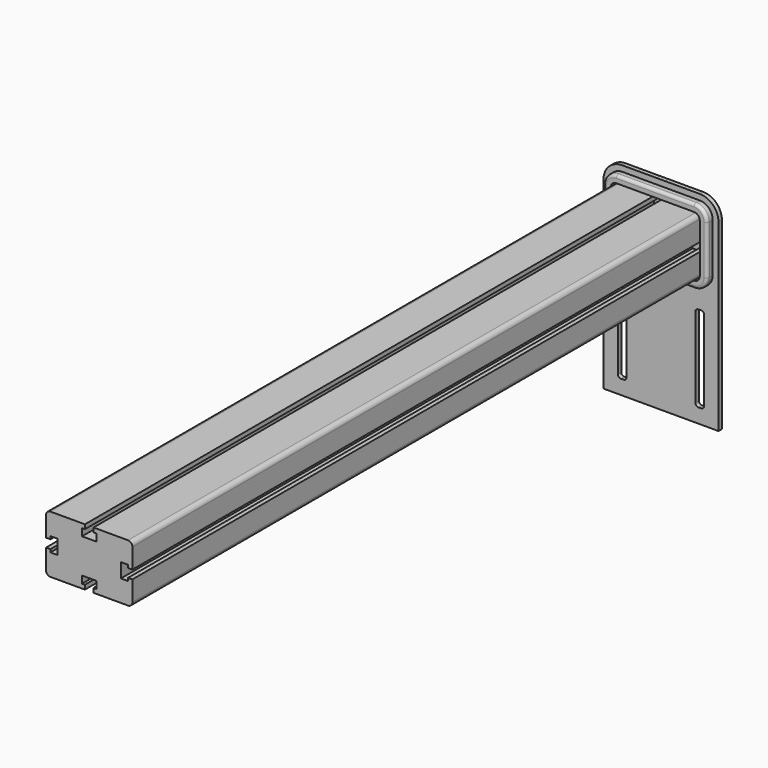
from build123d import *

# Parameters (mm, degrees)
F1_DEPTH = 500
F3_DEPTH = 3
F5_DEPTH = 5
F6_R     = 2


with BuildPart() as f1:
    # F0 (on Front) → F1 (new body)
    with BuildSketch(Plane.XZ):
        with BuildLine():
            Line((3, -20), (27, -20))
            ThreePointArc((27, -20), (29.12132, -19.12132), (30, -17))
            Line((30, -17), (30, -3))
            Line((30, -3), (27, -3))
            Line((27, -3), (27, -5))
            Line((27, -5), (22, -5))
            Line((22, -5), (22, 5))
            Line((22, 5), (27, 5))
            Line((27, 5), (27, 3))
            Line((27, 3), (30, 3))
            Line((30, 3), (30, 17))
            ThreePointArc((30, 17), (29.12132, 19.12132), (27, 20))
            Line((27, 20), (3, 20))
            Line((3, 20), (3, 17))
            Line((3, 17), (5, 17))
            Line((5, 17), (5, 12))
            Line((5, 12), (-5, 12))
            Line((-5, 12), (-5, 17))
            Line((-5, 17), (-3, 17))
            Line((-3, 17), (-3, 20))
            Line((-3, 20), (-27, 20))
            ThreePointArc((-27, 20), (-29.12132, 19.12132), (-30, 17))
            Line((-30, 17), (-30, 3))
            Line((-30, 3), (-27, 3))
            Line((-27, 3), (-27, 5))
            Line((-27, 5), (-22, 5))
            Line((-22, 5), (-22, -5))
            Line((-22, -5), (-27, -5))
            Line((-27, -5), (-27, -3))
            Line((-27, -3), (-30, -3))
            Line((-30, -3), (-30, -17))
            ThreePointArc((-30, -17), (-29.12132, -19.12132), (-27, -20))
            Line((-27, -20), (-3, -20))
            Line((-3, -20), (-3, -17))
            Line((-3, -17), (-5, -17))
            Line((-5, -17), (-5, -12))
            Line((-5, -12), (5, -12))
            Line((5, -12), (5, -17))
            Line((5, -17), (3, -17))
            Line((3, -17), (3, -20))
        make_face()
    extrude(amount=F1_DEPTH)


with BuildPart() as f3:
    # F2 (on Front) → F3 (new body)
    with BuildSketch(Plane.XZ):
        with BuildLine():
            Line((3, 29.999999), (-3, 30))
            Line((-3, 30), (-27, 30))
            ThreePointArc((-27, 30), (-36.192388, 26.192388), (-40, 17))
            Line((-40, 17), (-40, 3))
            Line((-40, 3), (-40, -110.966856))
            Line((-40, -110.966856), (39.999999, -110.966856))
            Line((39.999999, -110.966856), (39.999999, 3))
            Line((39.999999, 3), (39.999999, 17))
            ThreePointArc((39.999999, 17), (36.192388, 26.192388), (27, 29.999999))
            Line((27, 29.999999), (3, 29.999999))
        make_face()
        with BuildLine():
            ThreePointArc((-24, -98.966856), (-24.585786, -100.381069), (-26, -100.966856))
            Line((-26, -100.966856), (-28, -100.966856))
            ThreePointArc((-28, -100.966856), (-29.414214, -100.381069), (-30, -98.966856))
            Line((-30, -98.966856), (-30, -42.966856))
            ThreePointArc((-30, -42.966856), (-29.414214, -41.552642), (-28, -40.966856))
            Line((-28, -40.966856), (-26, -40.966856))
            ThreePointArc((-26, -40.966856), (-24.585786, -41.552642), (-24, -42.966856))
            Line((-24, -42.966856), (-24, -98.966856))
        make_face(mode=Mode.SUBTRACT)
        with BuildLine():
            ThreePointArc((26, -100.966856), (24.585786, -100.381069), (24, -98.966856))
            Line((24, -98.966856), (24, -42.966856))
            ThreePointArc((24, -42.966856), (24.585786, -41.552642), (26, -40.966856))
            Line((26, -40.966856), (28, -40.966856))
            ThreePointArc((28, -40.966856), (29.414214, -41.552642), (30, -42.966856))
            Line((30, -42.966856), (30, -98.966856))
            ThreePointArc((30, -98.966856), (29.414214, -100.381069), (28, -100.966856))
            Line((28, -100.966856), (26, -100.966856))
        make_face(mode=Mode.SUBTRACT)
    extrude(amount=F3_DEPTH)

    # F4 (on face) → F5 (join)
    with BuildSketch(Plane.XZ.offset(3)):
        with BuildLine():
            Line((3, 26.000001), (-3, 26.000001))
            Line((-3, 26.000001), (-27, 26.000001))
            ThreePointArc((-27, 26.000001), (-33.363961, 23.363961), (-36.000001, 17))
            Line((-36.000001, 17), (-36.000001, 3))
            Line((-36.000001, 3), (-36.000001, -3))
            Line((-36.000001, -3), (-36.000001, -17))
            ThreePointArc((-36.000001, -17), (-33.363961, -23.363961), (-27, -26.000001))
            Line((-27, -26.000001), (-3, -26.000001))
            Line((-3, -26.000001), (3, -26.000001))
            Line((3, -26.000001), (27, -26.000001))
            ThreePointArc((27, -26.000001), (33.363961, -23.363961), (36.000001, -17))
            Line((36.000001, -17), (36.000001, -3))
            Line((36.000001, -3), (36.000001, 3))
            Line((36.000001, 3), (36.000001, 17))
            ThreePointArc((36.000001, 17), (33.363961, 23.363961), (27, 26.000001))
            Line((27, 26.000001), (3, 26.000001))
        make_face()
        with BuildLine():
            Line((-31, -3), (-31, 3))
            Line((-31, 3), (-31, 17))
            ThreePointArc((-31, 17), (-29.828427, 19.828427), (-27, 21))
            Line((-27, 21), (-3, 21))
            Line((-3, 21), (3, 21))
            Line((3, 21), (27, 21))
            ThreePointArc((27, 21), (29.828427, 19.828427), (31, 17))
            Line((31, 17), (31, 3))
            Line((31, 3), (31, -3))
            Line((31, -3), (31, -17))
            ThreePointArc((31, -17), (29.828427, -19.828427), (27, -21))
            Line((27, -21), (3, -21))
            Line((3, -21), (-3, -21))
            Line((-3, -21), (-27, -21))
            ThreePointArc((-27, -21), (-29.828427, -19.828427), (-31, -17))
            Line((-31, -17), (-31, -3))
        make_face(mode=Mode.SUBTRACT)
    extrude(amount=F5_DEPTH)

    # F6
    f6_edges = [f3.edges().sort_by_distance(p)[0] for p in [
        (33.363961, -8, -23.363961),
    ]]
    fillet(f6_edges, radius=F6_R)


solid = Compound([f1.part, f3.part])
